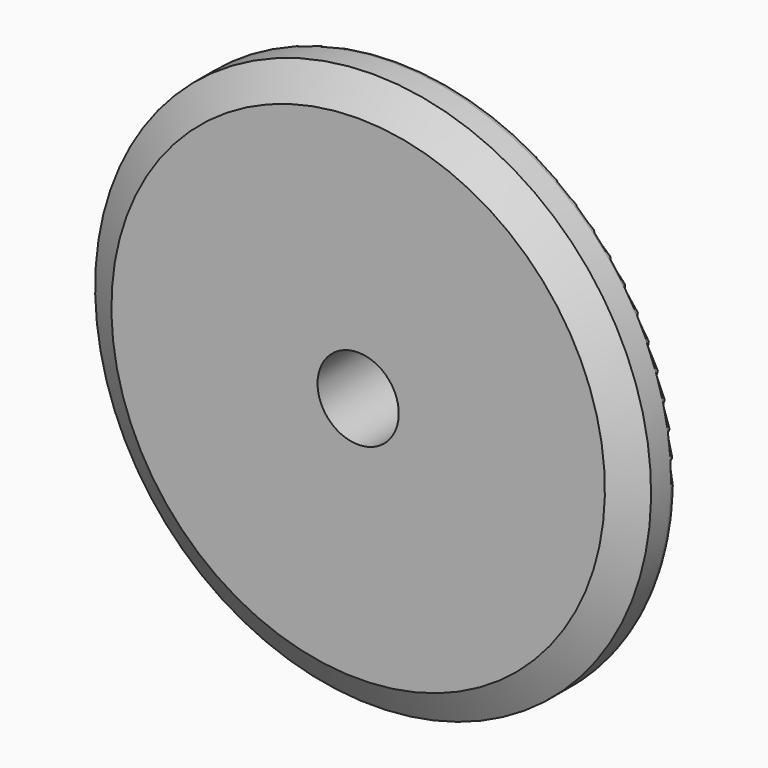
from build123d import *

# Parameters (mm, degrees)
F0_W     = 13
F0_H     = 21
F0_W_2   = 8
F0_H_2   = 17
F2_R     = 3
F3_R     = 1
F4_SIZE  = 3
F5_SIZE2 = 3
F5_SIZE  = 5


with BuildPart() as f1:
    # F0 (on Right) → F1 (revolve)
    with BuildSketch(Plane.YZ):
        with Locations((14.5, 17)):
            Rectangle(F0_W, F0_H)
        with Locations((4, 17)):
            Rectangle(F0_W_2, F0_H)
        with Locations((4, 36)):
            Rectangle(F0_W_2, F0_H_2)
    revolve(axis=Axis((0, 10.5, 0), (0, 1, 0)))

    # F2
    f2_edges = [f1.edges().sort_by_distance(p)[0] for p in [
        (0, 8, -27.5),
    ]]
    fillet(f2_edges, radius=F2_R)

    # F3
    f3_edges = [f1.edges().sort_by_distance(p)[0] for p in [
        (0, 8, -44.5),
    ]]
    fillet(f3_edges, radius=F3_R)

    # F4
    f4_edges = [f1.edges().sort_by_distance(p)[0] for p in [
        (0, 21, -27.5),
    ]]
    chamfer(f4_edges, length=F4_SIZE)

    # F5
    f5_edges = [f1.edges().sort_by_distance(p)[0] for p in [
        (0, 0, -44.5),
    ]]
    chamfer(f5_edges, length=F5_SIZE, length2=F5_SIZE2)


solid = f1.part
